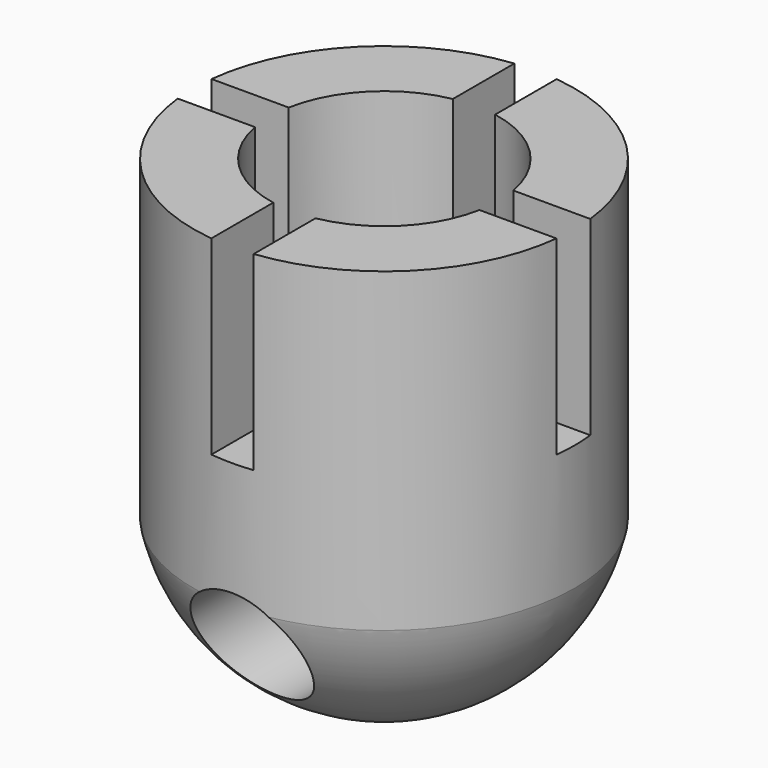
from build123d import *

# Parameters (mm, degrees)
SKETCH003_R        = 1.5
PAD001_DEPTH       = 10
SKETCH_R           = 5.004015
PAD_DEPTH          = 12
SKETCH001_W        = 11.284618
SKETCH001_H        = 1.110598
POCKET_DEPTH       = 5
POLARPATTERN_COUNT = 2
POLARPATTERN_ANGLE = 90
SKETCH002_R        = 3
POCKET001_DEPTH    = 5


with BuildPart() as revolution:
    # Sketch004 → Revolution (revolve)
    with BuildSketch(Plane.XZ):
        with BuildLine():
            ThreePointArc((0, -0.399672), (3.65233, 1.175436), (5.120847, 4.871912))
            Line((5.120847, 4.871912), (6.070016, 4.871912))
            Line((6.070016, 4.871912), (6.070016, -2.113572))
            Line((0, -2.113572), (6.070016, -2.113572))
            Line((0, -0.399672), (0, -2.113572))
        make_face()
    revolve(axis=Axis((0, 0, 0), (0, 0, 1)))


with BuildPart() as pad001:
    # Sketch003 → Pad001 (new body, symmetric)
    with BuildSketch(Plane.XZ):
        with Locations((0, 2.5)):
            Circle(SKETCH003_R)
    extrude(amount=PAD001_DEPTH, both=True)


with BuildPart() as obj1:
    # Sketch → Pad (new body)
    with BuildSketch(Plane.XY):
        Circle(SKETCH_R)
    extrude(amount=PAD_DEPTH)

    # Sketch001 → Pocket (cut)
    with BuildSketch(Plane.XY.offset(12)):
        Rectangle(SKETCH001_W, SKETCH001_H)
    pocket = extrude(amount=-POCKET_DEPTH, mode=Mode.SUBTRACT)

    # PolarPattern: Pocket ×2 about axis
    polarpattern_axis = Axis((0, 0, 12), (0, 0, 1))
    for i in range(1, POLARPATTERN_COUNT):
        add(pocket.rotate(polarpattern_axis, i * POLARPATTERN_ANGLE / (POLARPATTERN_COUNT - 1)), mode=Mode.SUBTRACT)

    # Sketch002 → Pocket001 (cut)
    with BuildSketch(Plane.XY.offset(12)):
        with Locations((0.003381, 0.006761)):
            Circle(SKETCH002_R)
    extrude(amount=-POCKET001_DEPTH, mode=Mode.SUBTRACT)

    # Cut: cut Pad001
    add(pad001.part, mode=Mode.SUBTRACT)

    # Cut001: cut Revolution
    add(revolution.part, mode=Mode.SUBTRACT)


solid = obj1.part
